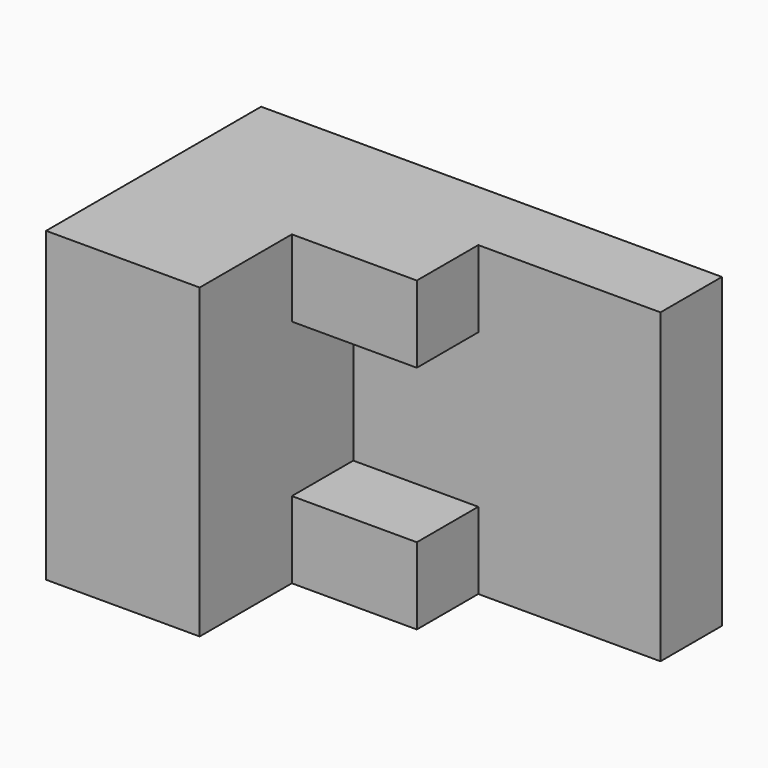
from build123d import *

# Parameters (mm, degrees)
F0_W     = 20
F0_H     = 10
F1_DEPTH = 10
F2_W     = 20
F2_H     = 40
F3_DEPTH = 25
F4_W     = 16.2738668919
F4_H     = 10
F5_DEPTH = 10


with BuildPart() as f1:
    # F0 (on Front) → F1 (new body)
    with BuildSketch(Plane.XZ):
        Polygon((-16.2738668919, 25.1521477103), (-36.2738668919, 25.1521477103), (-36.2738668919, -14.8478522897), (-16.2738668919, -14.8478522897), (-16.2738668919, -4.8478522897), (-16.2738668919, 15.1521477103), align=None)
        with Locations((-6.2738668919, 20.1521477103)):
            Rectangle(F0_W, F0_H)
        Polygon((23.7261331081, 25.1521477103), (3.7261331081, 25.1521477103), (3.7261331081, 15.1521477103), (-16.2738668919, 15.1521477103), (-16.2738668919, -4.8478522897), (3.7261331081, -4.8478522897), (3.7261331081, -14.8478522897), (23.7261331081, -14.8478522897), align=None)
        with Locations((-6.2738668919, -9.8478522897)):
            Rectangle(F0_W, F0_H)
    extrude(amount=F1_DEPTH)

    # F2 (on face) → F3 (join)
    with BuildSketch(Plane.XZ.offset(10)):
        with Locations((-26.2738668919, 5.1521477103)):
            Rectangle(F2_W, F2_H)
    extrude(amount=F3_DEPTH)

    # F4 (on face) → F5 (join)
    with BuildSketch(Plane.XZ.offset(10)):
        with Locations((-8.1369334459, 20.1521477103)):
            Rectangle(F4_W, F4_H)
        with Locations((-8.1369334459, -9.8478522897)):
            Rectangle(F4_W, F4_H)
    extrude(amount=F5_DEPTH)


solid = f1.part
